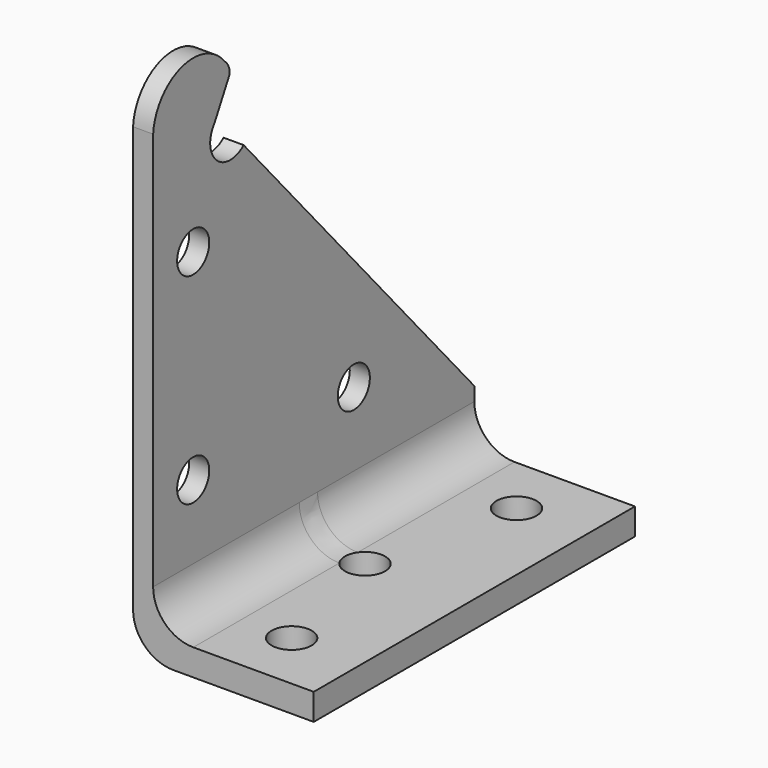
from build123d import *

# Parameters (mm, degrees)
F0_R     = 3.175
F1_DEPTH = 3.175
F2_W     = 63.5
F2_H     = 4.191
F3_DEPTH = 25.4
F4_R     = 3.175
F5_DEPTH = 25.4
F6_R     = 6.35


with BuildPart() as f1:
    # F0 (on Right) → F1 (new body)
    with BuildSketch(Plane.YZ):
        with BuildLine():
            ThreePointArc((-17.731718, 18.103163), (-17.947804, 19.309376), (-18.70349, 20.274041))
            ThreePointArc((-18.70349, 20.274041), (-27.274694, 22.950849), (-32.858508, 15.918648))
            Line((-32.858508, 15.918648), (-32.858508, -57.660647))
            Line((-32.858508, -57.660647), (30.641492, -57.660647))
            Line((30.641492, -57.660647), (30.641492, -44.960647))
            Line((30.641492, -44.960647), (-14.967139, 7.123187))
            ThreePointArc((-14.967139, 7.123187), (-20.344879, 7.203814), (-20.701, 12.570355))
            Line((-20.701, 12.570355), (-17.731718, 18.103163))
        make_face()
        with Locations((-24.940386, -35.435647)):
            Circle(F0_R, mode=Mode.SUBTRACT)
        with Locations((6.809614, -35.435647)):
            Circle(F0_R, mode=Mode.SUBTRACT)
        with Locations((-24.940386, -3.685647)):
            Circle(F0_R, mode=Mode.SUBTRACT)
    extrude(amount=F1_DEPTH)

    # F2 (on face) → F3 (join)
    with BuildSketch(Plane.YZ.offset(3.175)):
        with Locations((-1.108508, -55.565147)):
            Rectangle(F2_W, F2_H)
    extrude(amount=F3_DEPTH)

    # F4 (on face) → F5 (cut)
    with BuildSketch(Plane.XY.offset(-53.469647)):
        with Locations((17.462499, -23.333508)):
            Circle(F4_R)
        with Locations((17.462499, 21.116492)):
            Circle(F4_R)
        with Locations((12.1285, -2.161645)):
            Circle(F4_R)
    extrude(amount=-F5_DEPTH, mode=Mode.SUBTRACT)

    # F6
    f6_edges = [f1.edges().sort_by_distance(p)[0] for p in [
        (3.175, -1.108508, -53.469647),
        (0, -1.108508, -57.660647),
    ]]
    fillet(f6_edges, radius=F6_R)


solid = f1.part
